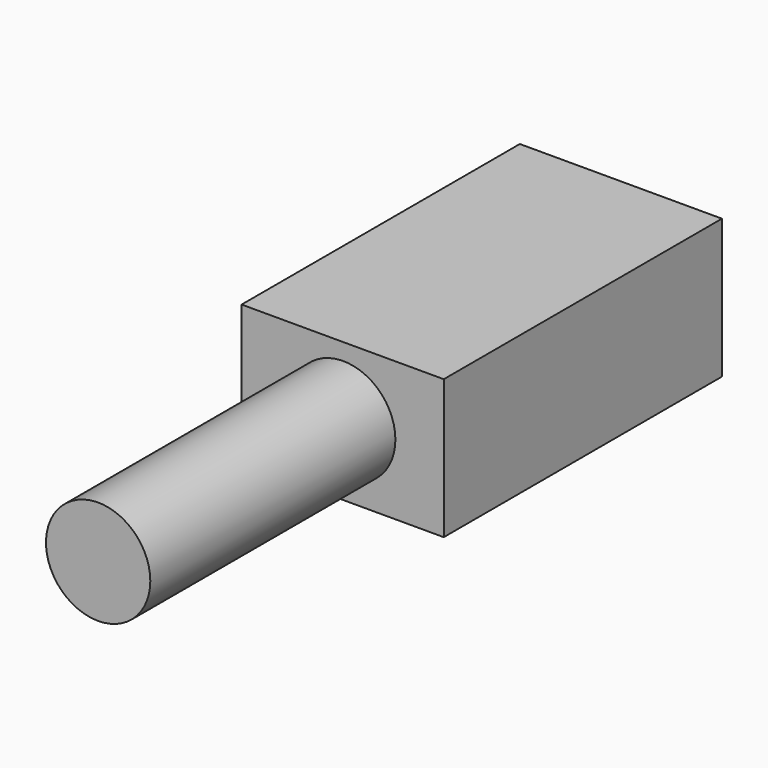
from build123d import *

# Parameters (mm, degrees)
F0_W     = 1476.490693
F0_H     = 1016
F0_R     = 381
F1_DEPTH = 2540
F2_R     = 381
F3_DEPTH = 2238.081591


with BuildPart() as f1:
    # F0 (on Front) → F1 (new body)
    with BuildSketch(Plane.XZ):
        with Locations((-3.912091, -5.140144)):
            Rectangle(F0_W, F0_H)
        Circle(F0_R, mode=Mode.SUBTRACT)
    extrude(amount=F1_DEPTH)


with BuildPart() as f3:
    # F2 (on face) → F3 (new body)
    with BuildSketch(Plane.XZ.offset(2540)):
        Circle(F2_R)
    extrude(amount=F3_DEPTH)


solid = Compound([f1.part, f3.part])
